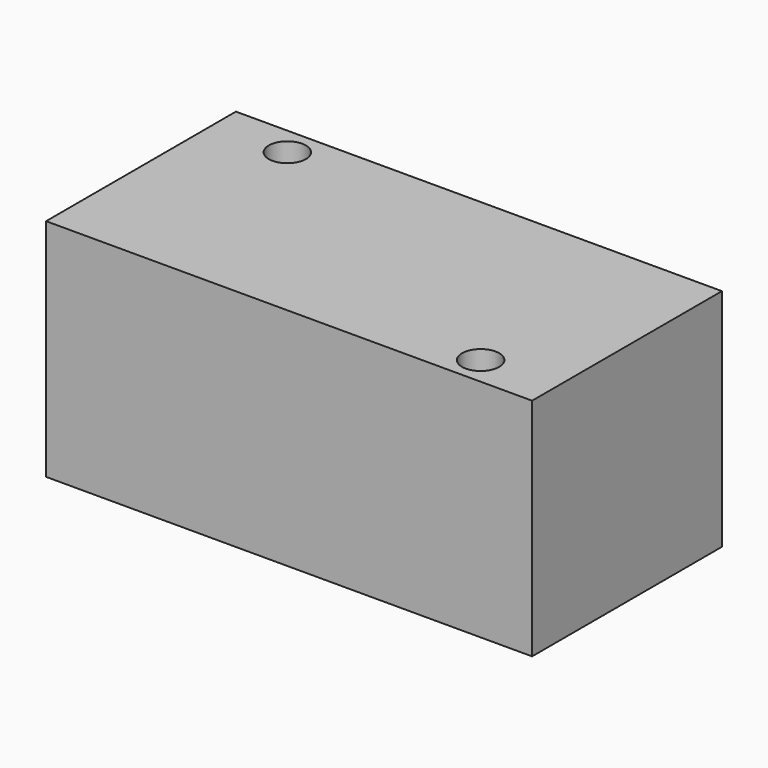
from build123d import *

# Parameters (mm, degrees)
F0_W     = 43.18
F0_H     = 21.082
F1_DEPTH = 20
F2_D     = 3.3


with BuildPart() as f1:
    # F0 (on Top) → F1 (new body)
    with BuildSketch(Plane.XY):
        Rectangle(F0_W, F0_H)
    extrude(amount=F1_DEPTH)

    # F2 (through all)
    with Locations(Plane(origin=(0, 0, 0), x_dir=(1, 0, 0), z_dir=(0, 0, -1))):
        with Locations((-14.986, -8.001), (14.986, 8.001)):
            Hole(F2_D / 2)


solid = f1.part
